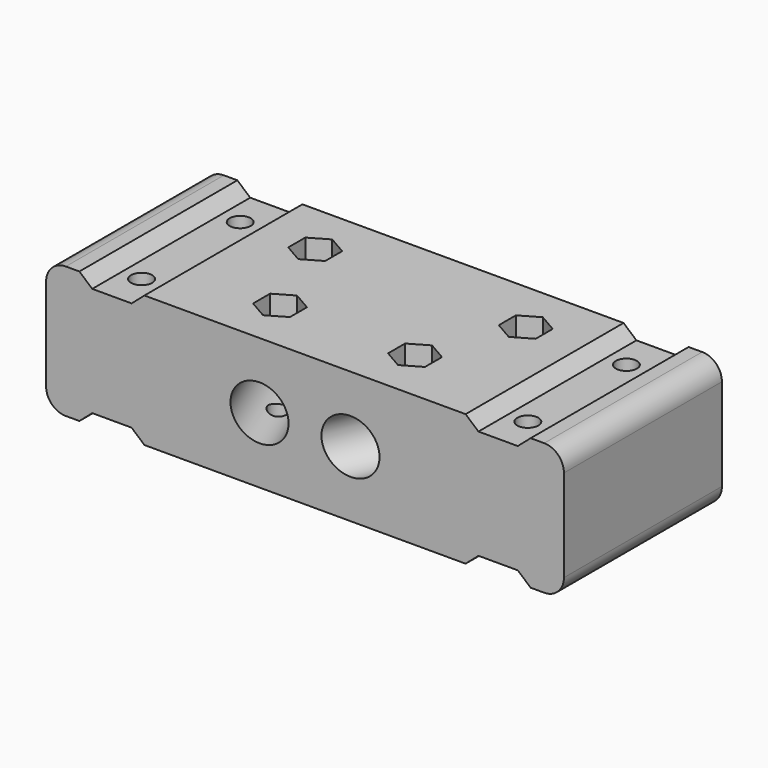
from build123d import *

# Parameters (mm, degrees)
SKETCH_R        = 1.6
PAD_DEPTH       = 20
SKETCH001_R     = 4.075
POCKET_DEPTH    = 51.858993
SKETCH002_R     = 4.075
POCKET001_DEPTH = 51.858993
POCKET002_DEPTH = 20.001
POCKET003_DEPTH = 3.5
POCKET004_DEPTH = 3.5
POCKET005_DEPTH = 30.001
POCKET006_DEPTH = 30.001
FILLET_R        = 3


with BuildPart() as part:
    # Sketch → Pad (new body)
    with BuildSketch(Plane.XY):
        Polygon((39.337155, 15), (39.337155, -15), (-39.337155, -15), (-39.337155, 15), (-23.747903, 15), (-16.218285, 18.11887), (-14.926407, 15), (14.926407, 15), (16.218285, 18.11887), (23.747903, 15), align=None)
        with Locations((-29.337155, 9.3625)):
            Circle(SKETCH_R, mode=Mode.SUBTRACT)
        with Locations((-29.337155, -9.3625)):
            Circle(SKETCH_R, mode=Mode.SUBTRACT)
        with Locations((29.337155, 9.3625)):
            Circle(SKETCH_R, mode=Mode.SUBTRACT)
        with Locations((29.337155, -9.3625)):
            Circle(SKETCH_R, mode=Mode.SUBTRACT)
        with Locations((10.253826, -6.929096)):
            Circle(SKETCH_R, mode=Mode.SUBTRACT)
        with Locations((15.994077, 6.929096)):
            Circle(SKETCH_R, mode=Mode.SUBTRACT)
        with Locations((-10.253826, -6.929096)):
            Circle(SKETCH_R, mode=Mode.SUBTRACT)
        with Locations((-15.994077, 6.929096)):
            Circle(SKETCH_R, mode=Mode.SUBTRACT)
    extrude(amount=PAD_DEPTH)

    # Sketch001 (on Face10 of Pad) → Pocket (cut, through all)
    with BuildSketch(Plane(origin=(8.781101, 21.199453, 0), x_dir=(-0.92388, 0.382683, 0), z_dir=(0.382683, 0.92388, 0))):
        with Locations((-12.12495, 10)):
            Circle(SKETCH001_R)
    extrude(amount=-POCKET_DEPTH, mode=Mode.SUBTRACT)

    # Sketch002 (on Face13 of Pocket) → Pocket001 (cut, through all)
    with BuildSketch(Plane(origin=(-8.781101, 21.199453, 0), x_dir=(-0.92388, -0.382683, 0), z_dir=(-0.382683, 0.92388, 0))):
        with Locations((12.12495, 10)):
            Circle(SKETCH002_R)
    extrude(amount=-POCKET001_DEPTH, mode=Mode.SUBTRACT)

    # Sketch003 (on Face5 of Pocket001) → Pocket002 (cut, through all)
    with BuildSketch(Plane(origin=(0, 0, 0), x_dir=(1, 0, 0), z_dir=(0, 0, -1))):
        Polygon((-14.926407, -15), (-16.218285, -18.11887), (-23.747903, -15), align=None)
        Polygon((14.926407, -15), (16.218285, -18.11887), (23.747903, -15), align=None)
    extrude(amount=-POCKET002_DEPTH, mode=Mode.SUBTRACT)

    # Sketch004 (on Face5 of Pocket002) → Pocket003 (cut)
    with BuildSketch(Plane(origin=(0, 0, 0), x_dir=(1, 0, 0), z_dir=(0, 0, -1))):
        Polygon((-7.453826, 8.545677), (-10.253826, 10.162258), (-13.053826, 8.545677), (-13.053826, 5.312516), (-10.253826, 3.695935), (-7.453826, 5.312516), align=None)
        Polygon((13.053826, 8.545677), (10.253826, 10.162258), (7.453826, 8.545677), (7.453826, 5.312516), (10.253826, 3.695935), (13.053826, 5.312516), align=None)
        Polygon((15.994077, -3.695935), (13.194077, -5.312516), (13.194077, -8.545677), (15.994077, -10.162258), (18.794077, -8.545677), (18.794077, -5.312516), align=None)
        Polygon((-13.194077, -5.312516), (-15.994077, -3.695935), (-18.794077, -5.312516), (-18.794077, -8.545677), (-15.994077, -10.162258), (-13.194077, -8.545677), align=None)
    extrude(amount=-POCKET003_DEPTH, mode=Mode.SUBTRACT)

    # Sketch005 (on Face6 of Pocket003) → Pocket004 (cut)
    with BuildSketch(Plane.XY.offset(20)):
        Polygon((-13.194077, 8.545677), (-15.994077, 10.162258), (-18.794077, 8.545677), (-18.794077, 5.312516), (-15.994077, 3.695935), (-13.194077, 5.312516), align=None)
        Polygon((10.253826, -3.695935), (7.453826, -5.312516), (7.453826, -8.545677), (10.253826, -10.162258), (13.053826, -8.545677), (13.053826, -5.312516), align=None)
        Polygon((13.194077, 8.545677), (13.194077, 5.312516), (15.994077, 3.695935), (18.794077, 5.312516), (18.794077, 8.545677), (15.994077, 10.162258), align=None)
        Polygon((-10.253826, -3.695935), (-13.053826, -5.312516), (-13.053826, -8.545677), (-10.253826, -10.162258), (-7.453826, -8.545677), (-7.453826, -5.312516), align=None)
    extrude(amount=-POCKET004_DEPTH, mode=Mode.SUBTRACT)

    # Sketch006 (on Face7 of Pocket004) → Pocket005 (cut, through all)
    with BuildSketch(Plane(origin=(0, 15, 0), x_dir=(-1, 0, 0), z_dir=(0, 1, 0))):
        Polygon((-29.337155, 0), (-34.077155, 0), (-32.277155, 1.56), (-26.397155, 1.56), (-24.597155, 0), align=None)
        Polygon((29.337155, 0), (34.077155, 0), (32.277155, 1.56), (26.397155, 1.56), (24.597155, 0), align=None)
        Polygon((-24.597155, 20), (-34.077155, 20), (-32.277155, 18.44), (-26.397155, 18.44), align=None)
        Polygon((24.597155, 20), (34.077155, 20), (32.277155, 18.44), (26.397155, 18.44), align=None)
    extrude(amount=-POCKET005_DEPTH, mode=Mode.SUBTRACT)

    # Sketch007 (on Face15 of Pocket005) → Pocket006 (cut, through all)
    with BuildSketch(Plane.XZ.offset(15)):
        Polygon((-24.397155, 20), (-26.348293, 18.309014), (-32.326017, 18.309014), (-34.277155, 20), (-29.337155, 20), align=None)
        Polygon((-24.397155, 0), (-34.277155, 0), (-32.326017, 1.690986), (-26.348293, 1.690986), align=None)
        Polygon((24.397155, 0), (34.277155, 0), (32.326017, 1.690986), (26.348293, 1.690986), align=None)
        Polygon((26.348293, 18.309014), (32.326017, 18.309014), (34.277155, 20), (24.397155, 20), align=None)
    extrude(amount=-POCKET006_DEPTH, mode=Mode.SUBTRACT)

    # Fillet
    fillet_edges = [part.edges().sort_by_distance(p)[0] for p in [
        (39.337155, 0, 20),
        (39.337155, 0, 0),
        (-39.337155, 0, 20),
        (-39.337155, 0, 0),
    ]]
    fillet(fillet_edges, radius=FILLET_R)


solid = part.part
